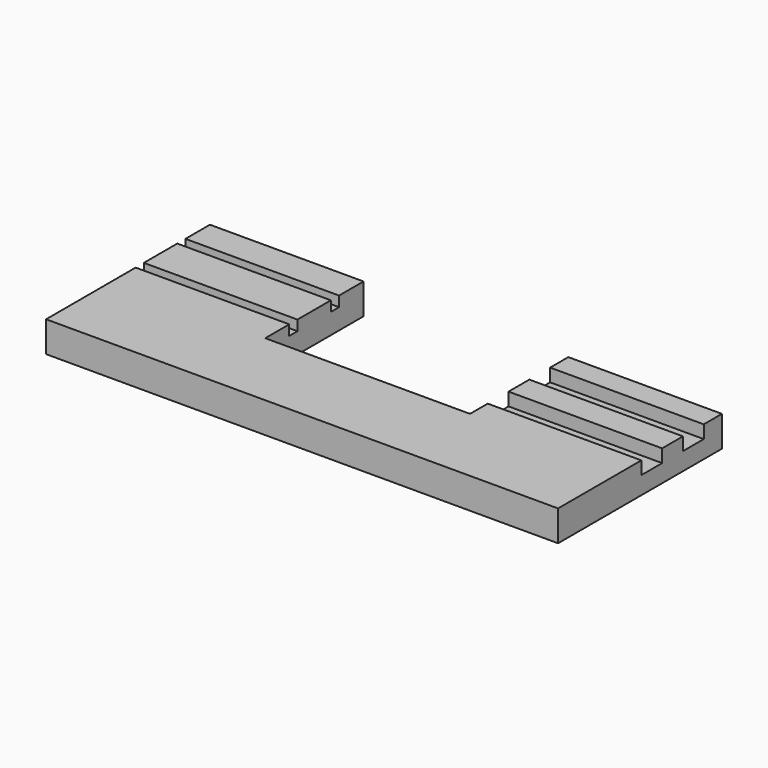
from build123d import *

# Parameters (mm, degrees)
PAD_DEPTH       = 1.5
SKETCH002_W     = 9.788774
SKETCH002_H     = 1.27
POCKET001_DEPTH = 0.635
SKETCH001_W     = 9.785776
SKETCH001_H     = 0.5
POCKET_DEPTH    = 0.5


with BuildPart() as part:
    # Sketch → Pad (new body)
    with BuildSketch(Plane.XY):
        Polygon((-12.5, 6), (-5, 6), (-5, 0), (5, 0), (5, 6), (12.5, 6), (12.5, -4), (-12.5, -4), align=None)
    extrude(amount=-PAD_DEPTH)

    # Sketch002 → Pocket001 (cut)
    with BuildSketch(Plane.XY):
        with Locations((8.541229, 4.25644)):
            Rectangle(SKETCH002_W, SKETCH002_H)
        with Locations((8.541229, 1.71644)):
            Rectangle(SKETCH002_W, SKETCH002_H)
    extrude(amount=-POCKET001_DEPTH, mode=Mode.SUBTRACT)

    # Sketch001 → Pocket (cut)
    with BuildSketch(Plane.XY):
        with Locations((-8.271684, 4.25644)):
            Rectangle(SKETCH001_W, SKETCH001_H)
        with Locations((-8.271684, 1.71644)):
            Rectangle(SKETCH001_W, SKETCH001_H)
    extrude(amount=-POCKET_DEPTH, mode=Mode.SUBTRACT)


solid = part.part
